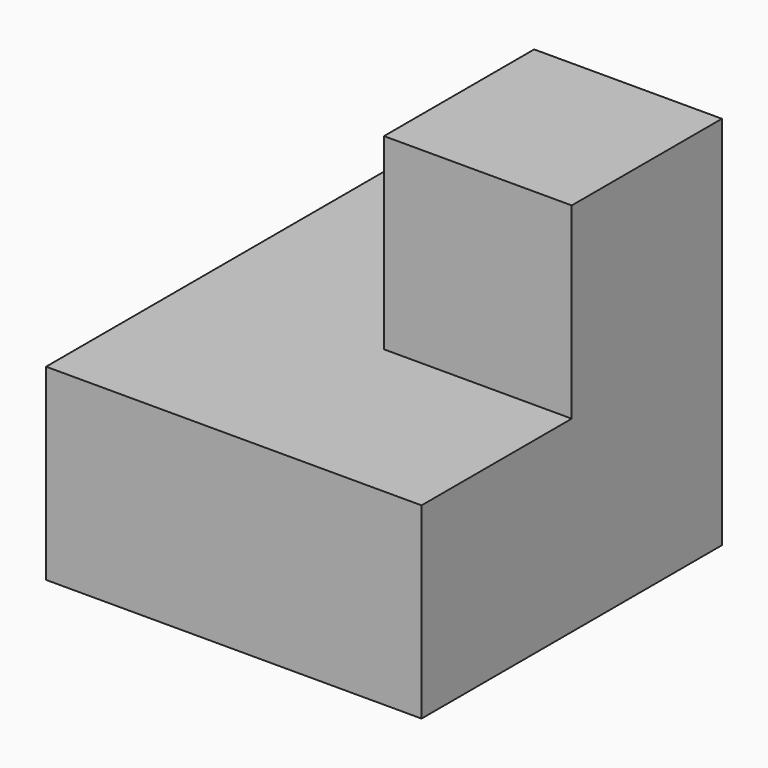
from build123d import *

# Parameters (mm, degrees)
F1_DEPTH = 10
F2_W     = 10
F2_H     = 10
F3_DEPTH = 10


with BuildPart() as f1:
    # F0 (on Top) → F1 (new body)
    with BuildSketch(Plane.XY):
        Polygon((-25.733888, -2.319416), (-27.566773, -2.319416), (-27.566773, -32.319416), (-7.566773, -32.319416), (-7.566773, -12.319416), (-17.566773, -12.319416), (-17.566773, -2.319416), align=None)
    extrude(amount=F1_DEPTH)

    # F2 (on face) → F3 (join)
    with BuildSketch(Plane.XY.offset(10)):
        with Locations((-12.566773, -17.319416)):
            Rectangle(F2_W, F2_H)
    extrude(amount=F3_DEPTH)


solid = f1.part
